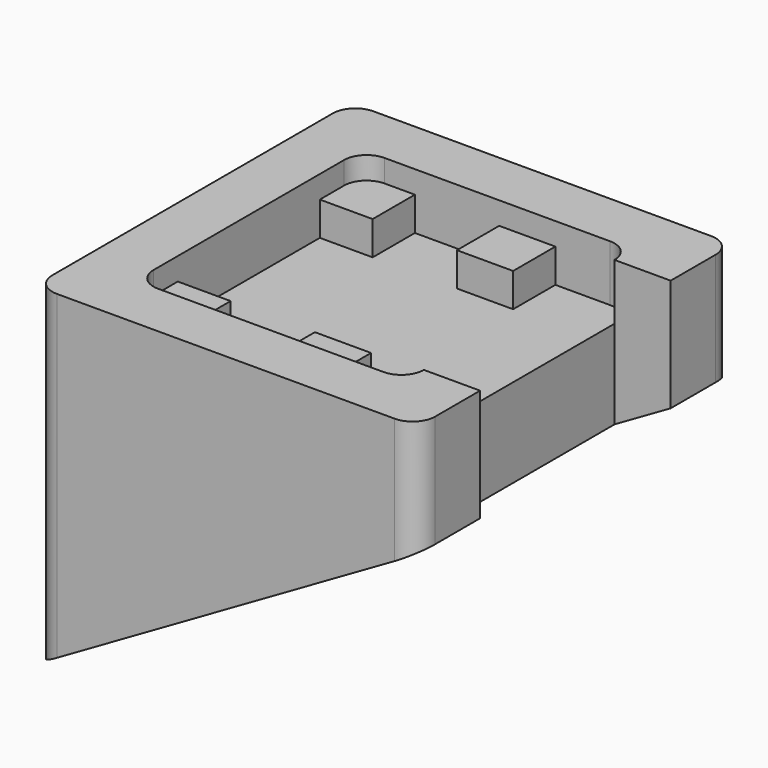
from build123d import *

# Parameters (mm, degrees)
F0_W     = 5
F0_H     = 4.7
F1_DEPTH = 5
F2_DEPTH = 3
F4_DEPTH = 2
F6_DEPTH = 35.2
F7_DEPTH = 25
F8_DEPTH = 25


with BuildPart() as f1:
    # F0 (on Top) → F1 (new body)
    with BuildSketch(Plane.XY):
        with BuildLine():
            ThreePointArc((12.031, -10.6), (11.4452135624, -12.0142135624), (10.031, -12.6))
            Line((10.031, -12.6), (5.169, -12.6))
            Line((5.169, -12.6), (0.169, -12.6))
            Line((0.169, -12.6), (-7.331, -12.6))
            Line((-7.331, -12.6), (-10.031, -12.6))
            ThreePointArc((-10.031, -12.6), (-11.4452135624, -12.0142135624), (-12.031, -10.6))
            Line((-12.031, -10.6), (-12.031, -7.9))
            Line((-12.031, -7.9), (-12.031, 7.9))
            Line((-12.031, 7.9), (-12.031, 10.6))
            ThreePointArc((-12.031, 10.6), (-11.4452135624, 12.0142135624), (-10.031, 12.6))
            Line((-10.031, 12.6), (-7.331, 12.6))
            Line((-7.331, 12.6), (0.169, 12.6))
            Line((0.169, 12.6), (5.169, 12.6))
            Line((5.169, 12.6), (10.031, 12.6))
            ThreePointArc((10.031, 12.6), (11.4452135624, 12.0142135624), (12.031, 10.6))
            Line((12.031, 10.6), (17.031, 10.6))
            Line((17.031, 10.6), (17.031, 15.6))
            ThreePointArc((17.031, 15.6), (16.4452135624, 17.0142135624), (15.031, 17.6))
            Line((15.031, 17.6), (-15.031, 17.6))
            ThreePointArc((-15.031, 17.6), (-16.4452135624, 17.0142135624), (-17.031, 15.6))
            Line((-17.031, 15.6), (-17.031, -15.6))
            ThreePointArc((-17.031, -15.6), (-16.4452135624, -17.0142135624), (-15.031, -17.6))
            Line((-15.031, -17.6), (15.031, -17.6))
            ThreePointArc((15.031, -17.6), (16.4452135624, -17.0142135624), (17.031, -15.6))
            Line((17.031, -15.6), (17.031, -10.6))
            Line((17.031, -10.6), (12.031, -10.6))
        make_face()
        with BuildLine():
            Line((5.169, -12.6), (10.031, -12.6))
            ThreePointArc((10.031, -12.6), (11.4452135624, -12.0142135624), (12.031, -10.6))
            Line((12.031, -10.6), (12.031, -10.4))
            Line((12.031, -10.4), (12.031, 10.4))
            Line((12.031, 10.4), (12.031, 10.6))
            ThreePointArc((12.031, 10.6), (11.4452135624, 12.0142135624), (10.031, 12.6))
            Line((10.031, 12.6), (5.169, 12.6))
            Line((5.169, 12.6), (5.169, 7.9))
            Line((5.169, 7.9), (0.169, 7.9))
            Line((0.169, 7.9), (0.169, 12.6))
            Line((0.169, 12.6), (-7.331, 12.6))
            Line((-7.331, 12.6), (-7.331, 7.9))
            Line((-7.331, 7.9), (-12.031, 7.9))
            Line((-12.031, 7.9), (-12.031, -7.9))
            Line((-12.031, -7.9), (-7.331, -7.9))
            Line((-7.331, -7.9), (-7.331, -12.6))
            Line((-7.331, -12.6), (0.169, -12.6))
            Line((0.169, -12.6), (0.169, -7.9))
            Line((0.169, -7.9), (5.169, -7.9))
            Line((5.169, -7.9), (5.169, -12.6))
        make_face()
        with BuildLine():
            Line((-12.031, 10.6), (-12.031, 7.9))
            Line((-12.031, 7.9), (-7.331, 7.9))
            Line((-7.331, 7.9), (-7.331, 12.6))
            Line((-7.331, 12.6), (-10.031, 12.6))
            ThreePointArc((-10.031, 12.6), (-11.4452135624, 12.0142135624), (-12.031, 10.6))
        make_face()
        with Locations((2.669, 10.25)):
            Rectangle(F0_W, F0_H)
        with Locations((2.669, -10.25)):
            Rectangle(F0_W, F0_H)
        with BuildLine():
            Line((-10.031, -12.6), (-7.331, -12.6))
            Line((-7.331, -12.6), (-7.331, -7.9))
            Line((-7.331, -7.9), (-12.031, -7.9))
            Line((-12.031, -7.9), (-12.031, -10.6))
            ThreePointArc((-12.031, -10.6), (-11.4452135624, -12.0142135624), (-10.031, -12.6))
        make_face()
    extrude(amount=-F1_DEPTH)

    # F0 (on Top) → F2 (join)
    with BuildSketch(Plane.XY):
        with BuildLine():
            ThreePointArc((12.031, -10.6), (11.4452135624, -12.0142135624), (10.031, -12.6))
            Line((10.031, -12.6), (5.169, -12.6))
            Line((5.169, -12.6), (0.169, -12.6))
            Line((0.169, -12.6), (-7.331, -12.6))
            Line((-7.331, -12.6), (-10.031, -12.6))
            ThreePointArc((-10.031, -12.6), (-11.4452135624, -12.0142135624), (-12.031, -10.6))
            Line((-12.031, -10.6), (-12.031, -7.9))
            Line((-12.031, -7.9), (-12.031, 7.9))
            Line((-12.031, 7.9), (-12.031, 10.6))
            ThreePointArc((-12.031, 10.6), (-11.4452135624, 12.0142135624), (-10.031, 12.6))
            Line((-10.031, 12.6), (-7.331, 12.6))
            Line((-7.331, 12.6), (0.169, 12.6))
            Line((0.169, 12.6), (5.169, 12.6))
            Line((5.169, 12.6), (10.031, 12.6))
            ThreePointArc((10.031, 12.6), (11.4452135624, 12.0142135624), (12.031, 10.6))
            Line((12.031, 10.6), (17.031, 10.6))
            Line((17.031, 10.6), (17.031, 15.6))
            ThreePointArc((17.031, 15.6), (16.4452135624, 17.0142135624), (15.031, 17.6))
            Line((15.031, 17.6), (-15.031, 17.6))
            ThreePointArc((-15.031, 17.6), (-16.4452135624, 17.0142135624), (-17.031, 15.6))
            Line((-17.031, 15.6), (-17.031, -15.6))
            ThreePointArc((-17.031, -15.6), (-16.4452135624, -17.0142135624), (-15.031, -17.6))
            Line((-15.031, -17.6), (15.031, -17.6))
            ThreePointArc((15.031, -17.6), (16.4452135624, -17.0142135624), (17.031, -15.6))
            Line((17.031, -15.6), (17.031, -10.6))
            Line((17.031, -10.6), (12.031, -10.6))
        make_face()
        with BuildLine():
            Line((-12.031, 10.6), (-12.031, 7.9))
            Line((-12.031, 7.9), (-7.331, 7.9))
            Line((-7.331, 7.9), (-7.331, 12.6))
            Line((-7.331, 12.6), (-10.031, 12.6))
            ThreePointArc((-10.031, 12.6), (-11.4452135624, 12.0142135624), (-12.031, 10.6))
        make_face()
        with Locations((2.669, 10.25)):
            Rectangle(F0_W, F0_H)
        with Locations((2.669, -10.25)):
            Rectangle(F0_W, F0_H)
        with BuildLine():
            Line((-10.031, -12.6), (-7.331, -12.6))
            Line((-7.331, -12.6), (-7.331, -7.9))
            Line((-7.331, -7.9), (-12.031, -7.9))
            Line((-12.031, -7.9), (-12.031, -10.6))
            ThreePointArc((-12.031, -10.6), (-11.4452135624, -12.0142135624), (-10.031, -12.6))
        make_face()
    extrude(amount=F2_DEPTH)

    # F3 (on face) → F4 (join)
    with BuildSketch(Plane.XY.offset(3)):
        with BuildLine():
            ThreePointArc((-12.031, 10.6), (-11.4452135624, 12.0142135624), (-10.031, 12.6))
            Line((-10.031, 12.6), (-7.331, 12.6))
            Line((-7.331, 12.6), (0.169, 12.6))
            Line((0.169, 12.6), (5.169, 12.6))
            Line((5.169, 12.6), (10.031, 12.6))
            ThreePointArc((10.031, 12.6), (11.4452135624, 12.0142135624), (12.031, 10.6))
            Line((12.031, 10.6), (17.031, 10.6))
            Line((17.031, 10.6), (17.031, 15.6))
            ThreePointArc((17.031, 15.6), (16.4452135624, 17.0142135624), (15.031, 17.6))
            Line((15.031, 17.6), (-15.031, 17.6))
            ThreePointArc((-15.031, 17.6), (-16.4452135624, 17.0142135624), (-17.031, 15.6))
            Line((-17.031, 15.6), (-17.031, -15.6))
            ThreePointArc((-17.031, -15.6), (-16.4452135624, -17.0142135624), (-15.031, -17.6))
            Line((-15.031, -17.6), (15.031, -17.6))
            ThreePointArc((15.031, -17.6), (16.4452135624, -17.0142135624), (17.031, -15.6))
            Line((17.031, -15.6), (17.031, -10.6))
            Line((17.031, -10.6), (12.031, -10.6))
            ThreePointArc((12.031, -10.6), (11.4452135624, -12.0142135624), (10.031, -12.6))
            Line((10.031, -12.6), (5.169, -12.6))
            Line((5.169, -12.6), (0.169, -12.6))
            Line((0.169, -12.6), (-7.331, -12.6))
            Line((-7.331, -12.6), (-10.031, -12.6))
            ThreePointArc((-10.031, -12.6), (-11.4452135624, -12.0142135624), (-12.031, -10.6))
            Line((-12.031, -10.6), (-12.031, -7.9))
            Line((-12.031, -7.9), (-12.031, 7.9))
            Line((-12.031, 7.9), (-12.031, 10.6))
        make_face()
    extrude(amount=F4_DEPTH)

    # F5 (on face) → F6 (join, through all)
    with BuildSketch(Plane(origin=(0, 17.6, 0), x_dir=(-1, 0, 0), z_dir=(0, 1, 0))):
        Polygon((17.031, -24.6657048691), (17.031, -5), (15.031, -5), (-15.031, -5), (-17.031, -5), align=None)
    extrude(amount=-F6_DEPTH)

    # F7 (cut): faces of the model
    f7_faces = [f1.faces().sort_by_distance(p)[0] for p in [
        (-16.5842641221, -17.1532641221, -5),
        (-16.5842641221, 17.1532641221, -5),
        (16.5842641221, 17.1532641221, -5),
        (16.5842641221, -17.1532641221, -5),
    ]]
    extrude(f7_faces, amount=-F7_DEPTH, mode=Mode.SUBTRACT)

    # F8 (cut): a face of the model
    f8_faces = [f1.faces().sort_by_distance(p)[0] for p in [
        (14.531, 0, -5),
    ]]
    extrude(f8_faces, amount=-F8_DEPTH, mode=Mode.SUBTRACT)


solid = f1.part
